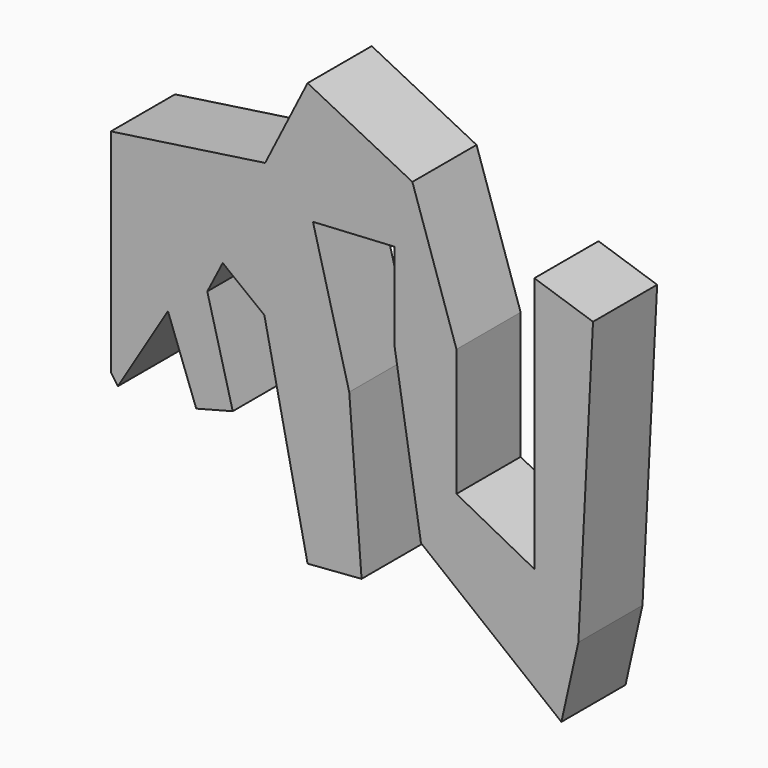
from build123d import *

# Parameters (mm, degrees)
F1_DEPTH = 25


with BuildPart() as f1:
    # F0 (on Front) → F1 (new body)
    with BuildSketch(Plane.XZ):
        Polygon((-61.343469, 24.777949), (-61.343469, -41.37677), (-59.17839, -44.504106), (-43.541819, -18.7639), (-34.719233, -42.674548), (-23.334563, -39.692849), (-31.273127, -9.381965), (-26.461877, 0), (-13.471492, -10.103643), (0, -73.945269), (16.8394, -72.649926), (12.990385, -22.6129), (1.68395, 20.447806), (27.183577, 21.891177), (27.183577, -5.773529), (35.362706, -56.772798), (79.145104, -91.65436), (84.43749, -68.079218), (89.008152, 21.410063), (70.725396, 27.424127), (70.725396, 0), (70.725396, -52.442655), (46.428576, -39.692834), (46.428576, 0), (32.6843, 41.483499), (0, 57.975583), (-13.23095, 31.754255), align=None)
    extrude(amount=F1_DEPTH)


solid = f1.part
